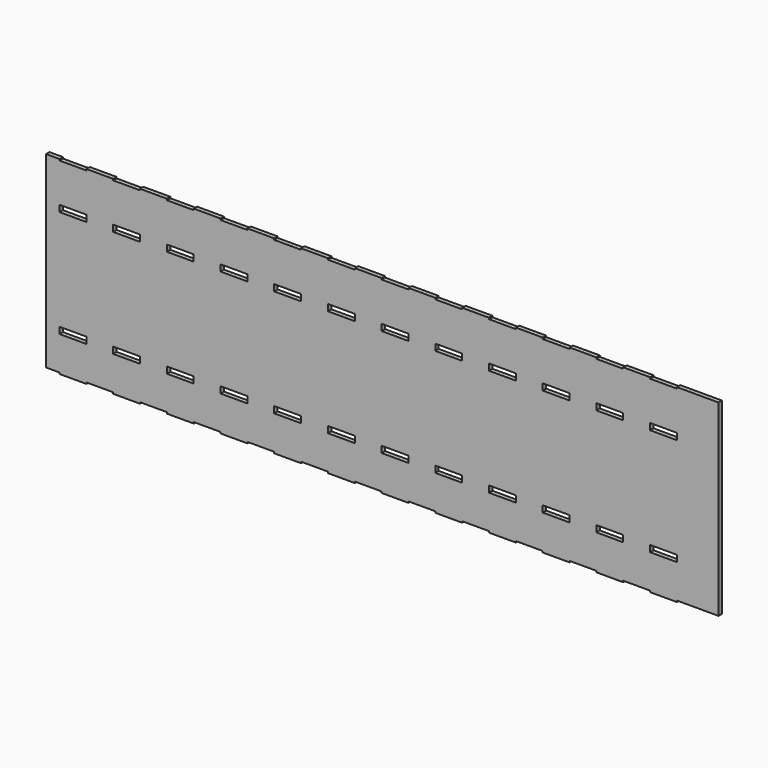
from build123d import *

# Parameters (mm, degrees)
F0_W     = 10
F0_H     = 2.4
F1_DEPTH = 1.6


with BuildPart() as f1:
    # F0 (on Front) → F1 (new body)
    with BuildSketch(Plane.XZ):
        Polygon((-125.837884, 14.897037), (-125.837884, -55.102963), (-120.837884, -55.102963), (-120.837884, -55.602963), (-110.837884, -55.602963), (-110.837884, -55.102963), (-100.837884, -55.102963), (-100.837884, -55.602963), (-90.837884, -55.602963), (-90.837884, -55.102963), (-80.837884, -55.102963), (-80.837884, -55.602963), (-70.837884, -55.602963), (-70.837884, -55.102963), (-60.837884, -55.102963), (-60.837884, -55.602963), (-50.837884, -55.602963), (-50.837884, -55.102963), (-40.837884, -55.102963), (-40.837884, -55.602963), (-30.837884, -55.602963), (-30.837884, -55.102963), (-20.837884, -55.102963), (-20.837884, -55.602963), (-10.837884, -55.602963), (-10.837884, -55.102963), (-0.837884, -55.102963), (-0.837884, -55.602963), (9.162116, -55.602963), (9.162116, -55.102963), (19.162116, -55.102963), (19.162116, -55.602963), (29.162116, -55.602963), (29.162116, -55.102963), (39.162116, -55.102963), (39.162116, -55.602963), (49.162116, -55.602963), (49.162116, -55.102963), (59.162116, -55.102963), (59.162116, -55.602963), (69.162116, -55.602963), (69.162116, -55.102963), (79.162116, -55.102963), (79.162116, -55.602963), (89.162116, -55.602963), (89.162116, -55.102963), (99.162116, -55.102963), (99.162116, -55.602963), (109.162116, -55.602963), (109.162116, -55.102963), (124.662116, -55.102963), (124.662116, 14.897037), (119.162116, 14.897037), (109.162116, 14.897037), (109.162116, 14.397037), (99.162116, 14.397037), (99.162116, 14.897037), (89.162116, 14.897037), (89.162116, 14.397037), (79.162116, 14.397037), (79.162116, 14.897037), (69.162116, 14.897037), (69.162116, 14.397037), (59.162116, 14.397037), (59.162116, 14.897037), (49.162116, 14.897037), (49.162116, 14.397037), (39.162116, 14.397037), (39.162116, 14.897037), (29.162116, 14.897037), (29.162116, 14.397037), (19.162116, 14.397037), (19.162116, 14.897037), (9.162116, 14.897037), (9.162116, 14.397037), (-0.837884, 14.397037), (-0.837884, 14.897037), (-10.837884, 14.897037), (-10.837884, 14.397037), (-20.837884, 14.397037), (-20.837884, 14.897037), (-30.837884, 14.897037), (-30.837884, 14.397037), (-40.837884, 14.397037), (-40.837884, 14.897037), (-50.837884, 14.897037), (-50.837884, 14.397037), (-60.837884, 14.397037), (-60.837884, 14.897037), (-70.837884, 14.897037), (-70.837884, 14.397037), (-80.837884, 14.397037), (-80.837884, 14.897037), (-90.837884, 14.897037), (-90.837884, 14.397037), (-100.837884, 14.397037), (-100.837884, 14.897037), (-110.837884, 14.897037), (-110.837884, 14.397037), (-120.837884, 14.397037), (-120.837884, 14.897037), align=None)
        with Locations((-115.837884, -41.302963)):
            Rectangle(F0_W, F0_H, mode=Mode.SUBTRACT)
        with Locations((-95.837884, -41.302963)):
            Rectangle(F0_W, F0_H, mode=Mode.SUBTRACT)
        with Locations((-75.837884, -41.302963)):
            Rectangle(F0_W, F0_H, mode=Mode.SUBTRACT)
        with Locations((-55.837884, -41.302963)):
            Rectangle(F0_W, F0_H, mode=Mode.SUBTRACT)
        with Locations((-35.837884, -41.302963)):
            Rectangle(F0_W, F0_H, mode=Mode.SUBTRACT)
        with Locations((-15.837884, -41.302963)):
            Rectangle(F0_W, F0_H, mode=Mode.SUBTRACT)
        with Locations((4.162116, -41.302963)):
            Rectangle(F0_W, F0_H, mode=Mode.SUBTRACT)
        with Locations((24.162116, -41.302963)):
            Rectangle(F0_W, F0_H, mode=Mode.SUBTRACT)
        with Locations((44.162116, -41.302963)):
            Rectangle(F0_W, F0_H, mode=Mode.SUBTRACT)
        with Locations((64.162116, -41.302963)):
            Rectangle(F0_W, F0_H, mode=Mode.SUBTRACT)
        with Locations((84.162116, -41.302963)):
            Rectangle(F0_W, F0_H, mode=Mode.SUBTRACT)
        with Locations((104.162116, -41.302963)):
            Rectangle(F0_W, F0_H, mode=Mode.SUBTRACT)
        with Locations((-115.837884, -1.302963)):
            Rectangle(F0_W, F0_H, mode=Mode.SUBTRACT)
        with Locations((-95.837884, -1.302963)):
            Rectangle(F0_W, F0_H, mode=Mode.SUBTRACT)
        with Locations((-75.837884, -1.302963)):
            Rectangle(F0_W, F0_H, mode=Mode.SUBTRACT)
        with Locations((-55.837884, -1.302963)):
            Rectangle(F0_W, F0_H, mode=Mode.SUBTRACT)
        with Locations((-35.837884, -1.302963)):
            Rectangle(F0_W, F0_H, mode=Mode.SUBTRACT)
        with Locations((-15.837884, -1.302963)):
            Rectangle(F0_W, F0_H, mode=Mode.SUBTRACT)
        with Locations((4.162116, -1.302963)):
            Rectangle(F0_W, F0_H, mode=Mode.SUBTRACT)
        with Locations((24.162116, -1.302963)):
            Rectangle(F0_W, F0_H, mode=Mode.SUBTRACT)
        with Locations((44.162116, -1.302963)):
            Rectangle(F0_W, F0_H, mode=Mode.SUBTRACT)
        with Locations((64.162116, -1.302963)):
            Rectangle(F0_W, F0_H, mode=Mode.SUBTRACT)
        with Locations((84.162116, -1.302963)):
            Rectangle(F0_W, F0_H, mode=Mode.SUBTRACT)
        with Locations((104.162116, -1.302963)):
            Rectangle(F0_W, F0_H, mode=Mode.SUBTRACT)
    extrude(amount=F1_DEPTH)


solid = f1.part
